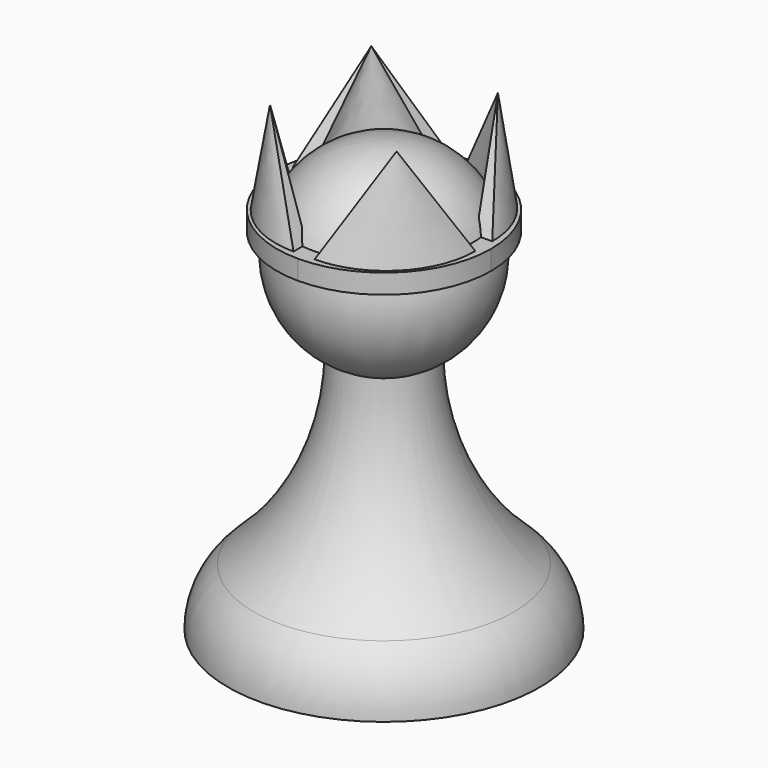
from build123d import *

# Parameters (mm, degrees)
F6_DEPTH = 1.27


with BuildPart() as f1:
    # F0 (on Front) → F1 (revolve)
    with BuildSketch(Plane.XZ):
        with BuildLine():
            Line((0, 15.24), (0, 27.94))
            ThreePointArc((0, 27.94), (-6.155362, 23.150133), (-3.024626, 16.006619))
            ThreePointArc((-3.024626, 16.006619), (-1.560133, 15.434638), (0, 15.24))
        make_face()
        with BuildLine():
            ThreePointArc((0, 15.24), (-1.560133, 15.434638), (-3.024626, 16.006619))
            ThreePointArc((-3.024626, 16.006619), (-4.449628, 9.310037), (-8.477709, 3.773845))
            ThreePointArc((-8.477709, 3.773845), (-9.720383, 2.065915), (-10.16, 0))
            Line((-10.16, 0), (0, 0))
            Line((0, 0), (0, 15.24))
        make_face()
    revolve(axis=Axis((0, 0, 13.97), (0, 0, -1)))

    # F3 (on offset) → F6 (join)
    with BuildSketch(Plane.XY.offset(22.86)):
        with BuildLine():
            Line((5.715, 0), (6.985, 0))
            ThreePointArc((6.985, 0), (4.939141, 4.939141), (0, 6.985))
            Line((0, 6.985), (0, 5.715))
            ThreePointArc((0, 5.715), (4.041115, 4.041115), (5.715, 0))
        make_face()
        with BuildLine():
            ThreePointArc((0, -6.985), (4.939141, -4.939141), (6.985, 0))
            Line((6.985, 0), (5.715, 0))
            ThreePointArc((5.715, 0), (4.041115, -4.041115), (0, -5.715))
            Line((0, -5.715), (0, -6.985))
        make_face()
        with BuildLine():
            Line((0, 5.715), (0, 6.985))
            ThreePointArc((0, 6.985), (-4.939141, 4.939141), (-6.985, 0))
            Line((-6.985, 0), (-5.715, 0))
            ThreePointArc((-5.715, 0), (-4.041115, 4.041115), (0, 5.715))
        make_face()
        with BuildLine():
            ThreePointArc((-6.985, 0), (-4.939141, -4.939141), (0, -6.985))
            Line((0, -6.985), (0, -5.715))
            ThreePointArc((0, -5.715), (-4.041115, -4.041115), (-5.715, 0))
            Line((-5.715, 0), (-6.985, 0))
        make_face()
    extrude(amount=F6_DEPTH)

    # F3 (on offset) → F7 section 0
    with BuildSketch(Plane.XY.offset(22.86), mode=Mode.PRIVATE) as f7_s0:
        with BuildLine():
            ThreePointArc((-6.985, 0), (-4.939141, -4.939141), (0, -6.985))
            Line((0, -6.985), (0, -5.715))
            ThreePointArc((0, -5.715), (-4.041115, -4.041115), (-5.715, 0))
            Line((-5.715, 0), (-6.985, 0))
        make_face()
    loft([Vertex(-4.1275, -4.1275, 30.48), f7_s0.sketch])

    # F3 (on offset) → F8 section 0
    with BuildSketch(Plane.XY.offset(22.86), mode=Mode.PRIVATE) as f8_s0:
        with BuildLine():
            ThreePointArc((0, -6.985), (4.939141, -4.939141), (6.985, 0))
            Line((6.985, 0), (5.715, 0))
            ThreePointArc((5.715, 0), (4.041115, -4.041115), (0, -5.715))
            Line((0, -5.715), (0, -6.985))
        make_face()
    loft([Vertex(4.1275, -4.1275, 30.48), f8_s0.sketch])

    # F3 (on offset) → F9 section 0
    with BuildSketch(Plane.XY.offset(22.86), mode=Mode.PRIVATE) as f9_s0:
        with BuildLine():
            Line((0, 5.715), (0, 6.985))
            ThreePointArc((0, 6.985), (-4.939141, 4.939141), (-6.985, 0))
            Line((-6.985, 0), (-5.715, 0))
            ThreePointArc((-5.715, 0), (-4.041115, 4.041115), (0, 5.715))
        make_face()
    loft([f9_s0.sketch, Vertex(-4.1275, 4.1275, 30.48)])

    # F3 (on offset) → F10 section 0
    with BuildSketch(Plane.XY.offset(22.86), mode=Mode.PRIVATE) as f10_s0:
        with BuildLine():
            Line((5.715, 0), (6.985, 0))
            ThreePointArc((6.985, 0), (4.939141, 4.939141), (0, 6.985))
            Line((0, 6.985), (0, 5.715))
            ThreePointArc((0, 5.715), (4.041115, 4.041115), (5.715, 0))
        make_face()
    loft([f10_s0.sketch, Vertex(4.1275, 4.1275, 30.48)])


solid = f1.part
